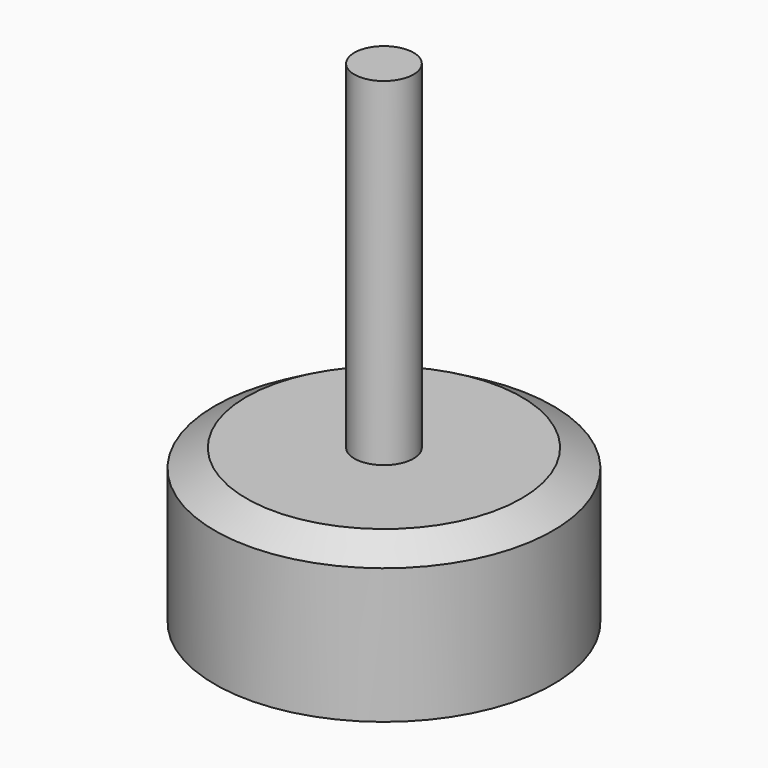
from build123d import *

# Parameters (mm, degrees)
F0_W   = 1.75
F0_H   = 20
F0_H_2 = 3
F0_H_3 = 1.0746234533


with BuildPart() as f1:
    # F0 (on Front) → F1 (revolve)
    with BuildSketch(Plane.XZ):
        with Locations((-21.4263077103, 19.0746234533)):
            Rectangle(F0_W, F0_H)
        Polygon((-22.3013077103, 8), (-30.5513077103, 8), (-30.5513077103, 0), (-22.3013077103, 0), (-22.3013077103, 5), align=None)
        Polygon((-28.6900052902, 9.0746234533), (-30.5513077103, 8), (-22.3013077103, 8), (-22.3013077103, 9.0746234533), align=None)
        with Locations((-21.4263077103, 6.5)):
            Rectangle(F0_W, F0_H_2)
        with Locations((-21.4263077103, 8.5373117267)):
            Rectangle(F0_W, F0_H_3)
    revolve(axis=Axis((-20.5513077103, 0, 19.0746234533), (0, 0, 1)))


solid = f1.part
